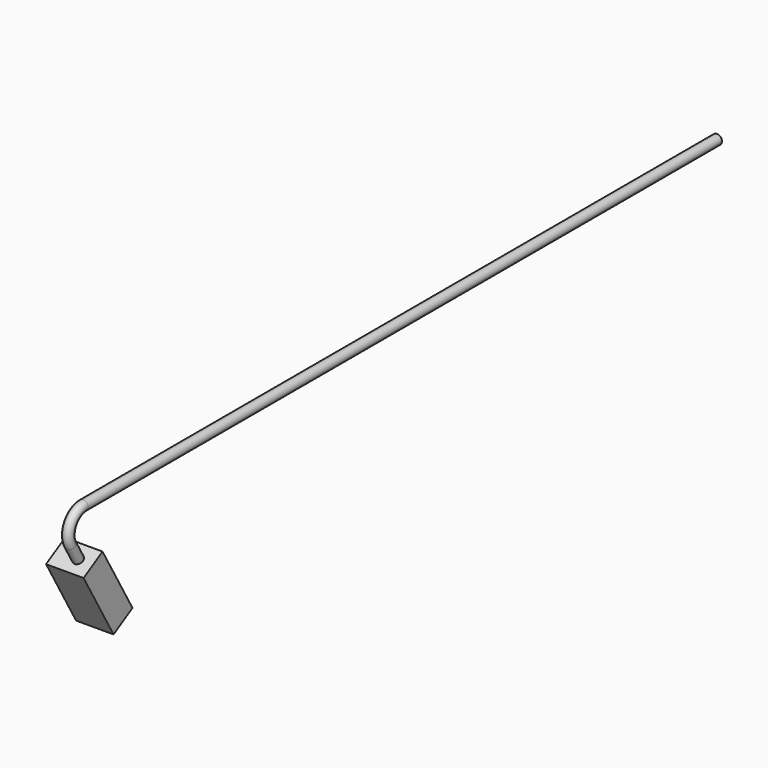
from build123d import *

# Parameters (mm, degrees)
F1_DEPTH = 25.4
F4_R     = 3.3285160808


with BuildPart() as f1:
    # F0 (on Right) → F1 (new body)
    with BuildSketch(Plane.YZ):
        Polygon((-16.057843037, -9.271), (0, 0), (-25.4, 43.9940905122), (-41.457843037, 34.7230905122), align=None)
    extrude(amount=F1_DEPTH)

    # F5: sweep along a path in F3
    with BuildLine(Plane.YZ.offset(15.24)) as f5_path:
        Line((-33.4289215185, 39.3585905122), (-39.9985926799, 50.7375947529))
        ThreePointArc((-39.9985926799, 50.7375947529), (-39.9985926799, 63.4375947529), (-29.0000700518, 69.7875947529))
        Line((-29.0000700518, 69.7875947529), (507.802884692, 69.7875947529))
    # F4 (on face) → F5 (sweep)
    with BuildSketch(Plane(origin=(0, -25.4, 43.9940905122), x_dir=(1, 0, 0), z_dir=(0, -0.5, 0.8660254038))):
        with Locations((15.24, -9.271)):
            Circle(F4_R)
    sweep(path=f5_path.line)


solid = f1.part
